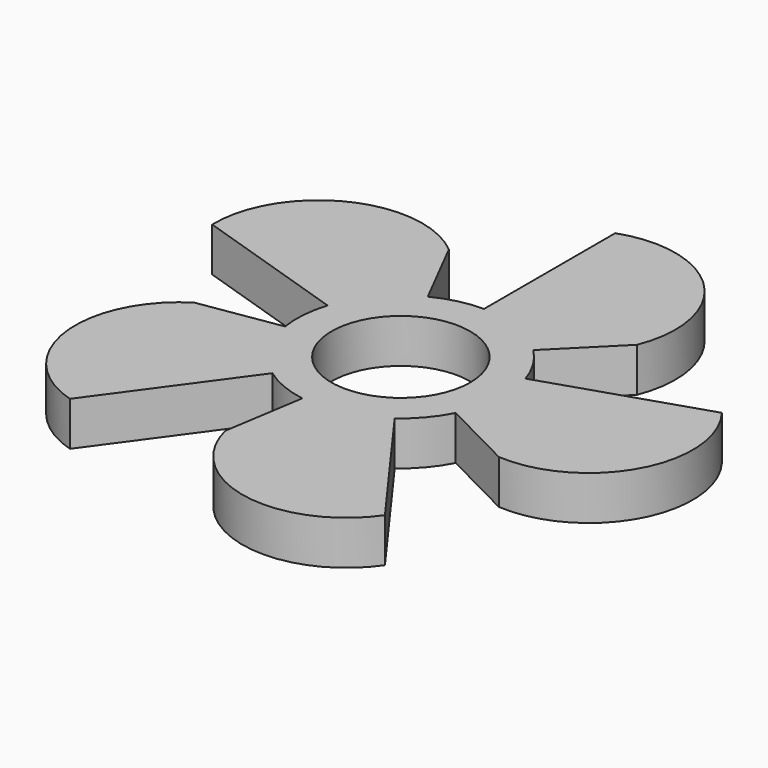
from build123d import *

# Parameters (mm, degrees)
F1_DEPTH = 6.35
F2_COUNT = 5
F3_R     = 15
F4_DEPTH = 6.35
F5_R     = 10
F6_DEPTH = 6.351


with BuildPart() as f1:
    # F0 (on Top) → F1 (new body)
    with BuildSketch(Plane.XY):
        with BuildLine():
            Line((0, 38.637033), (0, 0))
            Line((0, 0), (18.929224, 18.929224))
            ThreePointArc((18.929224, 18.929224), (15.818142, 34.885653), (0, 38.637033))
        make_face()
    extrude(amount=F1_DEPTH)



with BuildPart() as f2_1:
    # F2: instance of F1
    add(f1.part.rotate(Axis((0, 0, 3.175), (0, 0, 1)), 1 * 360 / F2_COUNT))


with BuildPart() as f2_2:
    # F2: instance of F1
    add(f1.part.rotate(Axis((0, 0, 3.175), (0, 0, 1)), 2 * 360 / F2_COUNT))


with BuildPart() as f2_3:
    # F2: instance of F1
    add(f1.part.rotate(Axis((0, 0, 3.175), (0, 0, 1)), 3 * 360 / F2_COUNT))


with BuildPart() as f2_4:
    # F2: instance of F1
    add(f1.part.rotate(Axis((0, 0, 3.175), (0, 0, 1)), 4 * 360 / F2_COUNT))


with BuildPart() as f1_1:
    add(f1.part)

    add(f2_1.part)  # F4 merges F2_1

    add(f2_2.part)  # F4 merges F2_2

    add(f2_3.part)  # F4 merges F2_3

    add(f2_4.part)  # F4 merges F2_4
    # F3 (on Top) → F4 (join, through all)
    with BuildSketch(Plane.XY):
        Circle(F3_R)
    extrude(amount=F4_DEPTH)

    # F5 (on face) → F6 (cut, through all)
    with BuildSketch(Plane.XY.offset(6.35)):
        Circle(F5_R)
    extrude(amount=-F6_DEPTH, mode=Mode.SUBTRACT)


solid = f1_1.part
